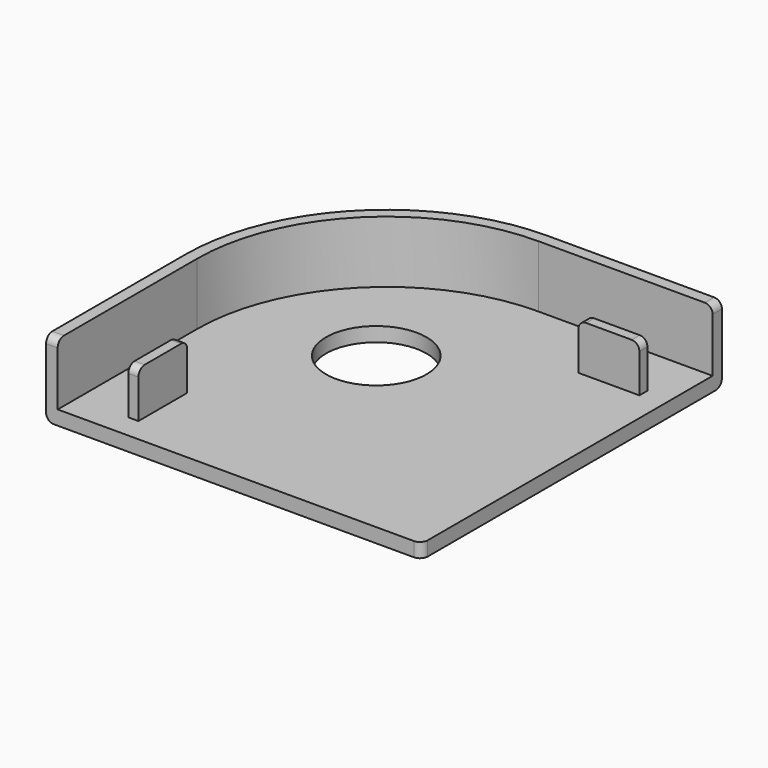
from build123d import *

# Parameters (mm, degrees)
F0_R     = 6.5
F1_DEPTH = 1.85
F3_DEPTH = 8
F4_W     = 1.3
F4_H     = 7.89
F4_W_2   = 7.89
F4_H_2   = 1.3
F5_DEPTH = 6
F6_R     = 1


with BuildPart() as f1:
    # F0 (on Top) → F1 (new body)
    with BuildSketch(Plane.XY):
        with BuildLine():
            Line((-24.288, -24.252), (24.252, -24.252))
            Line((24.252, -24.252), (24.252, 24.288))
            Line((24.252, 24.288), (1.712, 24.288))
            ThreePointArc((1.712, 24.288), (-16.672776, 16.672776), (-24.288, -1.712))
            Line((-24.288, -1.712), (-24.288, -24.252))
        make_face()
        with Locations((-5.005514, 5.005514)):
            Circle(F0_R, mode=Mode.SUBTRACT)
    extrude(amount=F1_DEPTH)

    # F2 (on face) → F3 (join)
    with BuildSketch(Plane.XY.offset(1.85)):
        with BuildLine():
            Line((-24.288, -1.712), (-24.288, -24.252))
            Line((-24.288, -24.252), (-22.788, -24.252))
            Line((-22.788, -24.252), (-22.788, -1.712))
            ThreePointArc((-22.788, -1.712), (-15.612116, 15.612116), (1.712, 22.788))
            Line((1.712, 22.788), (24.252, 22.788))
            Line((24.252, 22.788), (24.252, 24.288))
            Line((24.252, 24.288), (1.712, 24.288))
            ThreePointArc((1.712, 24.288), (-16.672776, 16.672776), (-24.288, -1.712))
        make_face()
    extrude(amount=F3_DEPTH)

    # F4 (on face) → F5 (join)
    with BuildSketch(Plane.XY.offset(1.85)):
        with Locations((-15.488, -17.197)):
            Rectangle(F4_W, F4_H)
        with Locations((17.197, 15.488)):
            Rectangle(F4_W_2, F4_H_2)
    extrude(amount=F5_DEPTH)

    # F6
    f6_edges = [f1.edges().sort_by_distance(p)[0] for p in [
        (-23.538, -24.252, 9.85),
        (24.252, 23.538, 9.85),
        (-24.288, -12.982, 0),
        (-15.488, -21.142, 7.85),
        (-15.488, -13.252, 7.85),
        (13.252, 15.488, 7.85),
        (21.142, 15.488, 7.85),
        (24.252, -24.252, 0.925),
    ]]
    fillet(f6_edges, radius=F6_R)


solid = f1.part
